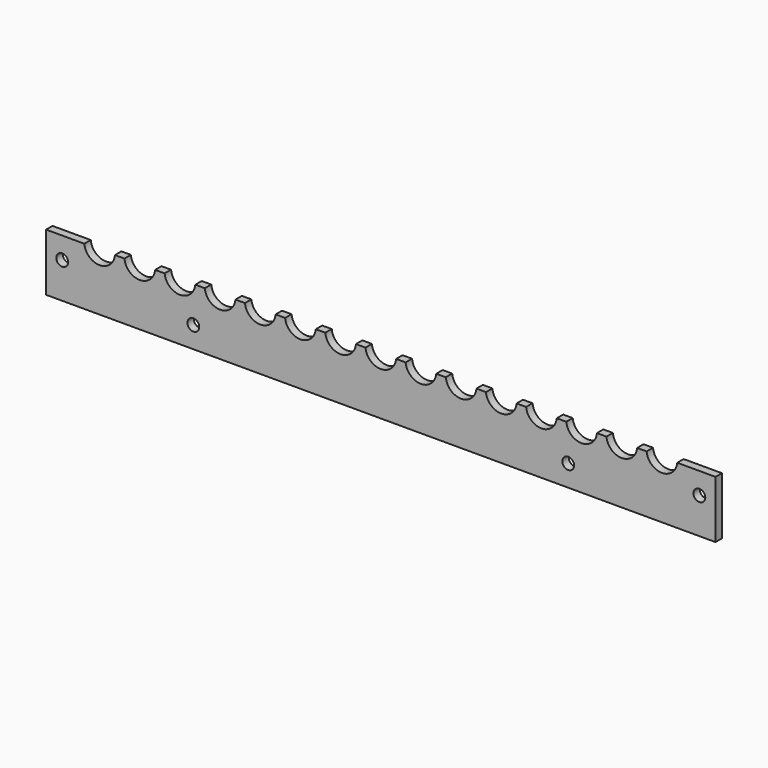
from build123d import *

# Parameters (mm, degrees)
F0_R     = 11
F1_DEPTH = 15


with BuildPart() as f1:
    # F0 (on Front) → F1 (new body)
    with BuildSketch(Plane.XZ):
        with BuildLine():
            Line((625, -53.625), (625, 53.625))
            Line((625, 53.625), (553.618176, 53.625))
            ThreePointArc((553.618176, 53.625), (525, 27.625), (496.381824, 53.625))
            Line((496.381824, 53.625), (478.618176, 53.625))
            ThreePointArc((478.618176, 53.625), (450, 27.625), (421.381824, 53.625))
            Line((421.381824, 53.625), (403.618176, 53.625))
            ThreePointArc((403.618176, 53.625), (375, 27.625), (346.381824, 53.625))
            Line((346.381824, 53.625), (328.618176, 53.625))
            ThreePointArc((328.618176, 53.625), (300, 27.625), (271.381824, 53.625))
            Line((271.381824, 53.625), (253.618176, 53.625))
            ThreePointArc((253.618176, 53.625), (225, 27.625), (196.381824, 53.625))
            Line((196.381824, 53.625), (178.618176, 53.625))
            ThreePointArc((178.618176, 53.625), (150, 27.625), (121.381824, 53.625))
            Line((121.381824, 53.625), (103.618176, 53.625))
            ThreePointArc((103.618176, 53.625), (75, 27.625), (46.381824, 53.625))
            Line((46.381824, 53.625), (28.618176, 53.625))
            ThreePointArc((28.618176, 53.625), (0, 27.625), (-28.618176, 53.625))
            Line((-28.618176, 53.625), (-46.381824, 53.625))
            ThreePointArc((-46.381824, 53.625), (-75, 27.625), (-103.618176, 53.625))
            Line((-103.618176, 53.625), (-121.381824, 53.625))
            ThreePointArc((-121.381824, 53.625), (-150, 27.625), (-178.618176, 53.625))
            Line((-178.618176, 53.625), (-196.381824, 53.625))
            ThreePointArc((-196.381824, 53.625), (-225, 27.625), (-253.618176, 53.625))
            Line((-253.618176, 53.625), (-271.381824, 53.625))
            ThreePointArc((-271.381824, 53.625), (-300, 27.625), (-328.618176, 53.625))
            Line((-328.618176, 53.625), (-346.381824, 53.625))
            ThreePointArc((-346.381824, 53.625), (-375, 27.625), (-403.618176, 53.625))
            Line((-403.618176, 53.625), (-421.381824, 53.625))
            ThreePointArc((-421.381824, 53.625), (-450, 27.625), (-478.618176, 53.625))
            Line((-478.618176, 53.625), (-496.381824, 53.625))
            ThreePointArc((-496.381824, 53.625), (-525, 27.625), (-553.618176, 53.625))
            Line((-553.618176, 53.625), (-625, 53.625))
            Line((-625, 53.625), (-625, -53.625))
            Line((-625, -53.625), (625, -53.625))
        make_face()
        with Locations((-350, -13.625)):
            Circle(F0_R, mode=Mode.SUBTRACT)
        with Locations((350, -13.625)):
            Circle(F0_R, mode=Mode.SUBTRACT)
        with Locations((-594.908628, 13.375)):
            Circle(F0_R, mode=Mode.SUBTRACT)
        with Locations((594.908628, 13.375)):
            Circle(F0_R, mode=Mode.SUBTRACT)
    extrude(amount=F1_DEPTH)


solid = f1.part
